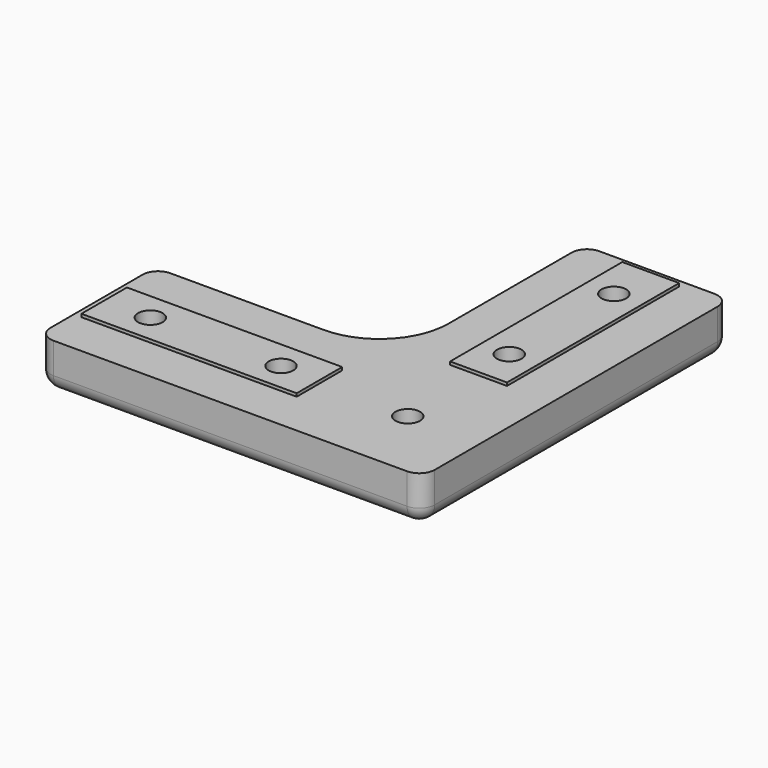
from build123d import *

# Parameters (mm, degrees)
PAD_DEPTH       = 6
SKETCH001_W     = 28
SKETCH001_H     = 7.4
SKETCH001_W_2   = 7.4
SKETCH001_H_2   = 28
PAD001_DEPTH    = 0.4
SKETCH002_R     = 1.6
POCKET_DEPTH    = 6.401
SKETCH003_R     = 3
POCKET001_DEPTH = 1
PAD002_DEPTH    = 0.2
SKETCH007_R     = 1
POCKET002_DEPTH = 0.01
FILLET_R        = 2
CHAMFER_SIZE    = 0.4


with BuildPart() as part:
    # Sketch → Pad (new body)
    with BuildSketch(Plane.XY):
        with BuildLine():
            Line((-9.5, 40.5), (9.5, 40.5))
            Line((9.5, 40.5), (9.5, -9.5))
            Line((9.5, -9.5), (-40.5, -9.5))
            Line((-40.5, -9.5), (-40.5, 9.5))
            Line((-40.5, 9.5), (-18.5, 9.5))
            ThreePointArc((-18.5, 9.5), (-12.136039, 12.136039), (-9.5, 18.5))
            Line((-9.5, 18.5), (-9.5, 40.5))
        make_face()
    extrude(amount=PAD_DEPTH)

    # Sketch001 → Pad001 (new body)
    with BuildSketch(Plane.XY.offset(6)):
        with Locations((-25.5, 0)):
            Rectangle(SKETCH001_W, SKETCH001_H)
        with Locations((0, 25.5)):
            Rectangle(SKETCH001_W_2, SKETCH001_H_2)
    extrude(amount=PAD001_DEPTH)

    # Sketch002 → Pocket (cut, through all)
    with BuildSketch(Plane(origin=(0, 0, 0), x_dir=(1, 0, 0), z_dir=(0, 0, -1))):
        with Locations((-33.5, 0)):
            Circle(SKETCH002_R)
        with Locations((-16.5, 0)):
            Circle(SKETCH002_R)
        with Locations((0, -16.5)):
            Circle(SKETCH002_R)
        with Locations((0, -33.5)):
            Circle(SKETCH002_R)
        Circle(SKETCH002_R)
    extrude(amount=-POCKET_DEPTH, mode=Mode.SUBTRACT)

    # Sketch003 → Pocket001 (cut)
    with BuildSketch(Plane(origin=(0, 0, 0), x_dir=(1, 0, 0), z_dir=(0, 0, -1))):
        with Locations((-33.5, 0)):
            Circle(SKETCH003_R)
        with Locations((-16.5, 0)):
            Circle(SKETCH003_R)
        with Locations((0, -16.5)):
            Circle(SKETCH003_R)
        with Locations((0, -33.5)):
            Circle(SKETCH003_R)
        Circle(SKETCH003_R)
    extrude(amount=-POCKET001_DEPTH, mode=Mode.SUBTRACT)

    # Sketch006 → Pad002 (new body)
    with BuildSketch(Plane(origin=(0, 0, 1), x_dir=(1, 0, 0), z_dir=(0, 0, -1))):
        Polygon((-36.591786, 5.291606), (5.977032, 5.291606), (5.977032, -37.277212), (-5.613096, -37.277212), (-5.613096, -6.298522), (-36.591786, -6.298522), align=None)
    extrude(amount=-PAD002_DEPTH)

    # Sketch007 → Pocket002 (cut)
    with BuildSketch(Plane.XY.offset(6)):
        Circle(SKETCH007_R)
    extrude(amount=POCKET002_DEPTH, mode=Mode.SUBTRACT)

    # Fillet
    fillet_edges = [part.edges().sort_by_distance(p)[0] for p in [
        (-40.5, 9.5, 3),
        (-29.5, 9.5, 0),
        (-12.136039, 12.136039, 0),
        (-9.5, 29.5, 0),
        (0, 40.5, 0),
        (9.5, 15.5, 0),
        (9.5, -9.5, 3),
        (9.5, 40.5, 3),
        (-9.5, 40.5, 3),
        (-40.5, 0, 0),
        (-40.5, -9.5, 3),
        (-15.5, -9.5, 0),
    ]]
    fillet(fillet_edges, radius=FILLET_R)

    # Chamfer
    chamfer_edges = [part.edges().sort_by_distance(p)[0] for p in [
        (-19.5, 0, 0),
        (-36.5, 0, 0),
        (-3, 0, 0),
        (-3, 16.5, 0),
        (-3, 33.5, 0),
    ]]
    chamfer(chamfer_edges, length=CHAMFER_SIZE)


solid = part.part
